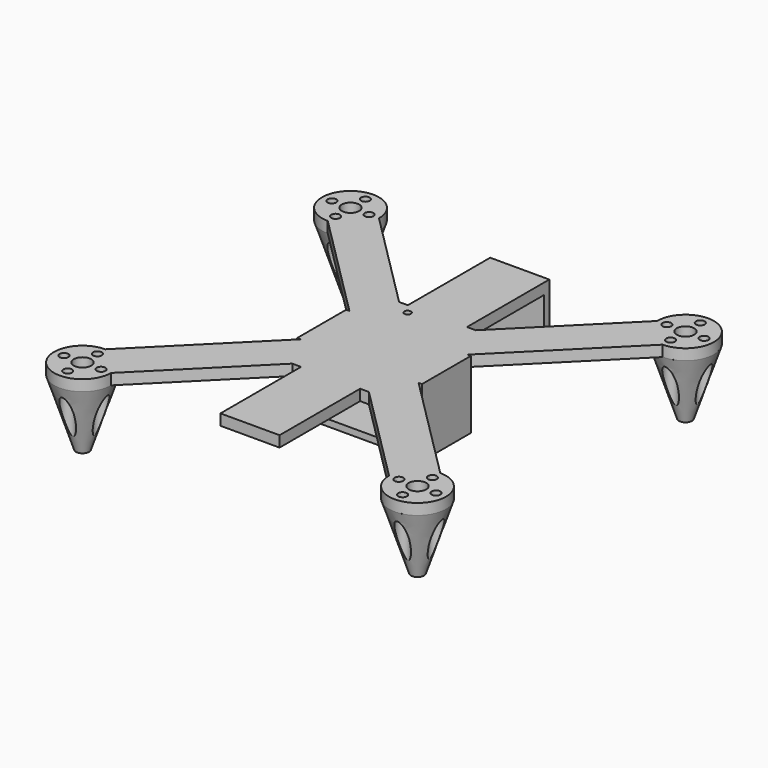
from build123d import *

# Parameters (mm, degrees)
SKETCH001_R     = 4
SKETCH001_R_2   = 1.5
SKETCH001_R_3   = 2
PAD_DEPTH       = 5
SKETCH002_W     = 27
SKETCH002_H     = 3
SKETCH002_W_2   = 3
SKETCH002_H_2   = 28
PAD001_DEPTH    = 31
SKETCH005_W     = 57
SKETCH005_H     = 28
PAD002_DEPTH    = 3
SKETCH004_R     = 3
POCKET_DEPTH    = 30.001
SKETCH006_R     = 3
POCKET001_DEPTH = 30.001
SKETCH007_R     = 3
POCKET002_DEPTH = 30.001
SKETCH008_R     = 3
POCKET003_DEPTH = 30.001


with BuildPart() as pad002:
    # Sketch001 → Pad (new body)
    with BuildSketch(Plane.XY):
        with BuildLine():
            ThreePointArc((-63.5, 76.5), (-85.692388, 85.692388), (-76.5, 63.5))
            Line((-76.5, 63.5), (-27, 14))
            Line((-27, -14), (-27, 14))
            Line((-76.5, -63.5), (-27, -14))
            ThreePointArc((-76.5, -63.5), (-85.692388, -85.692388), (-63.5, -76.5))
            Line((-63.5, -76.5), (-17.5, -30.5))
            Line((-13.5, -30.5), (-17.5, -30.5))
            Line((-13.5, -76.5), (-13.5, -30.5))
            Line((13.5, -76.5), (-13.5, -76.5))
            Line((13.5, -30.5), (13.5, -76.5))
            Line((17.5, -30.5), (13.5, -30.5))
            Line((17.5, -30.5), (63.5, -76.5))
            ThreePointArc((63.5, -76.5), (85.692388, -85.692388), (76.5, -63.5))
            Line((76.5, -63.5), (27, -14))
            Line((27, 14), (27, -14))
            Line((27, 14), (76.5, 63.5))
            ThreePointArc((76.5, 63.5), (85.692388, 85.692388), (63.5, 76.5))
            Line((63.5, 76.5), (17.5, 30.5))
            Line((13.5, 30.5), (17.5, 30.5))
            Line((13.5, 76.5), (13.5, 30.5))
            Line((-13.5, 76.5), (13.5, 76.5))
            Line((-13.5, 30.5), (-13.5, 76.5))
            Line((-17.5, 30.5), (-13.5, 30.5))
            Line((-63.5, 76.5), (-17.5, 30.5))
        make_face()
        with Locations((-76.5, 76.5)):
            Circle(SKETCH001_R, mode=Mode.SUBTRACT)
        with Locations((76.5, 76.5)):
            Circle(SKETCH001_R, mode=Mode.SUBTRACT)
        with Locations((76.5, -76.5)):
            Circle(SKETCH001_R, mode=Mode.SUBTRACT)
        with Locations((-76.5, -76.5)):
            Circle(SKETCH001_R, mode=Mode.SUBTRACT)
        with Locations((-10, 26)):
            Circle(SKETCH001_R_2, mode=Mode.SUBTRACT)
        with Locations((-76.5, 84.985281)):
            Circle(SKETCH001_R_3, mode=Mode.SUBTRACT)
        with Locations((-68.014719, 76.5)):
            Circle(SKETCH001_R_3, mode=Mode.SUBTRACT)
        with Locations((-84.985281, 76.5)):
            Circle(SKETCH001_R_3, mode=Mode.SUBTRACT)
        with Locations((-76.5, 68.014719)):
            Circle(SKETCH001_R_3, mode=Mode.SUBTRACT)
        with Locations((76.5, 84.985281)):
            Circle(SKETCH001_R_3, mode=Mode.SUBTRACT)
        with Locations((84.985281, 76.5)):
            Circle(SKETCH001_R_3, mode=Mode.SUBTRACT)
        with Locations((68.014719, 76.5)):
            Circle(SKETCH001_R_3, mode=Mode.SUBTRACT)
        with Locations((76.5, 68.014719)):
            Circle(SKETCH001_R_3, mode=Mode.SUBTRACT)
        with Locations((-76.5, -68.014719)):
            Circle(SKETCH001_R_3, mode=Mode.SUBTRACT)
        with Locations((-68.014719, -76.5)):
            Circle(SKETCH001_R_3, mode=Mode.SUBTRACT)
        with Locations((-84.985281, -76.5)):
            Circle(SKETCH001_R_3, mode=Mode.SUBTRACT)
        with Locations((-76.5, -84.985281)):
            Circle(SKETCH001_R_3, mode=Mode.SUBTRACT)
        with Locations((76.5, -68.014719)):
            Circle(SKETCH001_R_3, mode=Mode.SUBTRACT)
        with Locations((84.985281, -76.5)):
            Circle(SKETCH001_R_3, mode=Mode.SUBTRACT)
        with Locations((68.014719, -76.5)):
            Circle(SKETCH001_R_3, mode=Mode.SUBTRACT)
        with Locations((76.5, -84.985281)):
            Circle(SKETCH001_R_3, mode=Mode.SUBTRACT)
    extrude(amount=PAD_DEPTH)

    # Sketch002 → Pad001 (new body)
    with BuildSketch(Plane.XY.offset(5)):
        with Locations((0, 76)):
            Rectangle(SKETCH002_W, SKETCH002_H)
        with Locations((-27, 0)):
            Rectangle(SKETCH002_W_2, SKETCH002_H_2)
        with Locations((27, 0)):
            Rectangle(SKETCH002_W_2, SKETCH002_H_2)
    extrude(amount=-PAD001_DEPTH)

    # Sketch005 → Pad002 (new body)
    with BuildSketch(Plane(origin=(0, 0, -26), x_dir=(1, 0, 0), z_dir=(0, 0, -1))):
        Rectangle(SKETCH005_W, SKETCH005_H)
    extrude(amount=-PAD002_DEPTH)


with BuildPart() as pocket:
    # Cone003 → Cone003 (revolve)
    with BuildSketch(Plane(origin=(-76.5, -76.5, -30), x_dir=(1, 0, 0), z_dir=(0, -1, 0))):
        Polygon((0, 0), (3, 0), (13, 30), (0, 30), align=None)
    revolve(axis=Axis((-76.5, -76.5, -30), (0, 0, 1)))

    # Sketch004 → Pocket (cut, through all)
    with BuildSketch(Plane(origin=(-76.5, -76.5, 0), x_dir=(1, 0, 0), z_dir=(0, 0, 1))):
        with Locations((0, 8.485281)):
            Circle(SKETCH004_R)
        with Locations((8.485281, 0)):
            Circle(SKETCH004_R)
        with Locations((0, -8.485281)):
            Circle(SKETCH004_R)
        with Locations((-8.485281, 0)):
            Circle(SKETCH004_R)
    extrude(amount=-POCKET_DEPTH, mode=Mode.SUBTRACT)


with BuildPart() as pocket001:
    # Cone002 → Cone002 (revolve)
    with BuildSketch(Plane(origin=(-76.5, 76.5, -30), x_dir=(1, 0, 0), z_dir=(0, -1, 0))):
        Polygon((0, 0), (3, 0), (13, 30), (0, 30), align=None)
    revolve(axis=Axis((-76.5, 76.5, -30), (0, 0, 1)))

    # Sketch006 → Pocket001 (cut, through all)
    with BuildSketch(Plane(origin=(-76.5, 76.5, 0), x_dir=(1, 0, 0), z_dir=(0, 0, 1))):
        with Locations((0, 8.485281)):
            Circle(SKETCH006_R)
        with Locations((8.485281, 0)):
            Circle(SKETCH006_R)
        with Locations((0, -8.485281)):
            Circle(SKETCH006_R)
        with Locations((-8.485281, 0)):
            Circle(SKETCH006_R)
    extrude(amount=-POCKET001_DEPTH, mode=Mode.SUBTRACT)


with BuildPart() as pocket002:
    # Cone001 → Cone001 (revolve)
    with BuildSketch(Plane(origin=(76.5, 76.5, -30), x_dir=(1, 0, 0), z_dir=(0, -1, 0))):
        Polygon((0, 0), (3, 0), (13, 30), (0, 30), align=None)
    revolve(axis=Axis((76.5, 76.5, -30), (0, 0, 1)))

    # Sketch007 → Pocket002 (cut, through all)
    with BuildSketch(Plane(origin=(76.5, 76.5, 0), x_dir=(1, 0, 0), z_dir=(0, 0, 1))):
        with Locations((0, 8.485281)):
            Circle(SKETCH007_R)
        with Locations((8.485281, 0)):
            Circle(SKETCH007_R)
        with Locations((0, -8.485281)):
            Circle(SKETCH007_R)
        with Locations((-8.485281, 0)):
            Circle(SKETCH007_R)
    extrude(amount=-POCKET002_DEPTH, mode=Mode.SUBTRACT)


with BuildPart() as pocket003:
    # Cone → Cone (revolve)
    with BuildSketch(Plane(origin=(76.5, -76.5, -30), x_dir=(1, 0, 0), z_dir=(0, -1, 0))):
        Polygon((0, 0), (3, 0), (13, 30), (0, 30), align=None)
    revolve(axis=Axis((76.5, -76.5, -30), (0, 0, 1)))

    # Sketch008 → Pocket003 (cut, through all)
    with BuildSketch(Plane(origin=(76.5, -76.5, 0), x_dir=(1, 0, 0), z_dir=(0, 0, 1))):
        with Locations((0, 8.485281)):
            Circle(SKETCH008_R)
        with Locations((8.485281, 0)):
            Circle(SKETCH008_R)
        with Locations((0, -8.485281)):
            Circle(SKETCH008_R)
        with Locations((-8.485281, 0)):
            Circle(SKETCH008_R)
    extrude(amount=-POCKET003_DEPTH, mode=Mode.SUBTRACT)


solid = Compound([pad002.part, pocket.part, pocket001.part, pocket002.part, pocket003.part])
